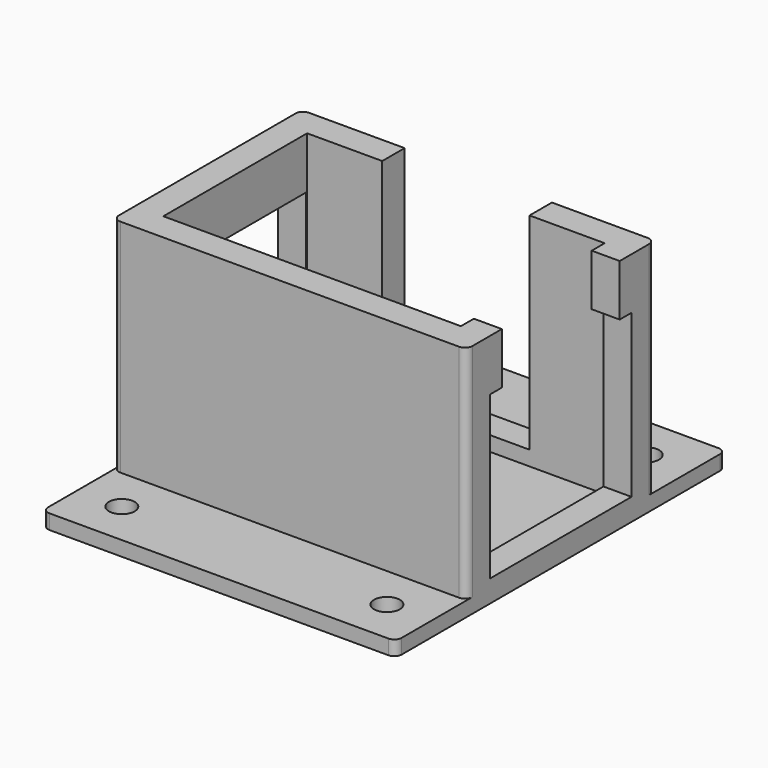
from build123d import *

# Parameters (mm, degrees)
SKETCH057_W         = 48
SKETCH057_H         = 56
PAD015_DEPTH        = 2
SKETCH058_R         = 1.75
HOLE023_DEPTH       = 25
SKETCH059_W         = 48
SKETCH059_H         = 32
PAD016_DEPTH        = 30
SKETCH060_W         = 40.4
SKETCH060_H         = 24.4
POCKET018_DEPTH     = 30
SKETCH061_W         = 20
SKETCH061_H         = 20
SKETCH061_W_2       = 40
POCKET019_DEPTH     = 28
SKETCH062_W         = 24
SKETCH062_H         = 22
POCKET020_DEPTH     = 50
SKETCH063_R         = 1.75
HOLE024_DEPTH       = 25
HOLE025_D           = 3.5
HOLE025_DEPTH       = 25
HOLE025_CSINK_D     = 8
HOLE025_CSINK_ANGLE = 90
HOLE025_TIPS_R      = 1.75
FILLET022_R         = 1
FILLET023_R         = 1


with BuildPart() as part:
    # Sketch057 → Pad015 (new body)
    with BuildSketch(Plane.XY):
        Rectangle(SKETCH057_W, SKETCH057_H)
    extrude(amount=PAD015_DEPTH)

    # Sketch058 (on Face6 of Pad015) → Hole023 (cut)
    with BuildSketch(Plane.XY.offset(2)):
        with Locations((18, 22)):
            Circle(SKETCH058_R)
        with Locations((18, -22)):
            Circle(SKETCH058_R)
    hole023 = extrude(amount=-HOLE023_DEPTH, mode=Mode.SUBTRACT)

    # Mirrored028: Hole023 across Sketch058 V_Axis
    add(hole023.mirror(Plane(origin=(0, 0, 2), x_dir=(0, 0, 1), z_dir=(1, 0, 0))), mode=Mode.SUBTRACT)

    # Sketch059 (on Face5 of Mirrored028) → Pad016 (join)
    with BuildSketch(Plane.XY.offset(2)):
        Rectangle(SKETCH059_W, SKETCH059_H)
    extrude(amount=PAD016_DEPTH)

    # Sketch060 (on Face12 of Pad016) → Pocket018 (cut)
    with BuildSketch(Plane.XY.offset(32)):
        Rectangle(SKETCH060_W, SKETCH060_H)
    extrude(amount=-POCKET018_DEPTH, mode=Mode.SUBTRACT)

    # Sketch061 (on Face8 of Pocket018) → Pocket019 (cut)
    with BuildSketch(Plane.XY.offset(32)):
        with Locations((0, 10)):
            Rectangle(SKETCH061_W, SKETCH061_H)
        with Locations((20, 0)):
            Rectangle(SKETCH061_W_2, SKETCH061_H)
    extrude(amount=-POCKET019_DEPTH, mode=Mode.SUBTRACT)

    # Sketch062 (on Face3 of Pocket019) → Pocket020 (cut)
    with BuildSketch(Plane(origin=(-24, 0, 0), x_dir=(0, -1, 0), z_dir=(-1, 0, 0))):
        with Locations((0, 14)):
            Rectangle(SKETCH062_W, SKETCH062_H)
    extrude(amount=-POCKET020_DEPTH, mode=Mode.SUBTRACT)

    # Sketch063 (on Face34 of Pocket020) → Hole024 (cut)
    with BuildSketch(Plane.XY.offset(2)):
        with Locations((-16.2, 8.2)):
            Circle(SKETCH063_R)
        with Locations((-16.2, -8.2)):
            Circle(SKETCH063_R)
    extrude(amount=-HOLE024_DEPTH, mode=Mode.SUBTRACT)

    # Hole025
    with Locations(Plane(origin=(0, 0, 0), x_dir=(1, 0, 0), z_dir=(0, 0, -1))):
        with Locations((-16.2, -8.2), (-16.2, 8.2)):
            CounterSinkHole(HOLE025_D / 2, HOLE025_CSINK_D / 2, depth=HOLE025_DEPTH, counter_sink_angle=HOLE025_CSINK_ANGLE)

    # Hole025 tips → Hole025 tip 1 section 0
    with BuildSketch(Plane(origin=(0, 0, 25), x_dir=(1, 0, 0), z_dir=(0, 0, -1)), mode=Mode.PRIVATE) as hole025_tip_1_s0:
        with Locations((-16.2, -8.2)):
            Circle(HOLE025_TIPS_R)
    loft([hole025_tip_1_s0.sketch, Vertex(-16.2, 8.2, 26.051506)], mode=Mode.SUBTRACT)

    # Hole025 tips → Hole025 tip 2 section 0
    with BuildSketch(Plane(origin=(0, 0, 25), x_dir=(1, 0, 0), z_dir=(0, 0, -1)), mode=Mode.PRIVATE) as hole025_tip_2_s0:
        with Locations((-16.2, 8.2)):
            Circle(HOLE025_TIPS_R)
    loft([hole025_tip_2_s0.sketch, Vertex(-16.2, -8.2, 26.051506)], mode=Mode.SUBTRACT)

    # Fillet022
    fillet022_edges = [part.edges().sort_by_distance(p)[0] for p in [
        (24, -28, 1),
        (24, 28, 1),
        (-24, -28, 1),
        (-24, 28, 1),
    ]]
    fillet(fillet022_edges, radius=FILLET022_R)

    # Fillet023
    fillet023_edges = [part.edges().sort_by_distance(p)[0] for p in [
        (24, 16, 17),
        (-24, 16, 17),
        (24, -16, 17),
        (-24, -16, 17),
    ]]
    fillet(fillet023_edges, radius=FILLET023_R)


solid = part.part
